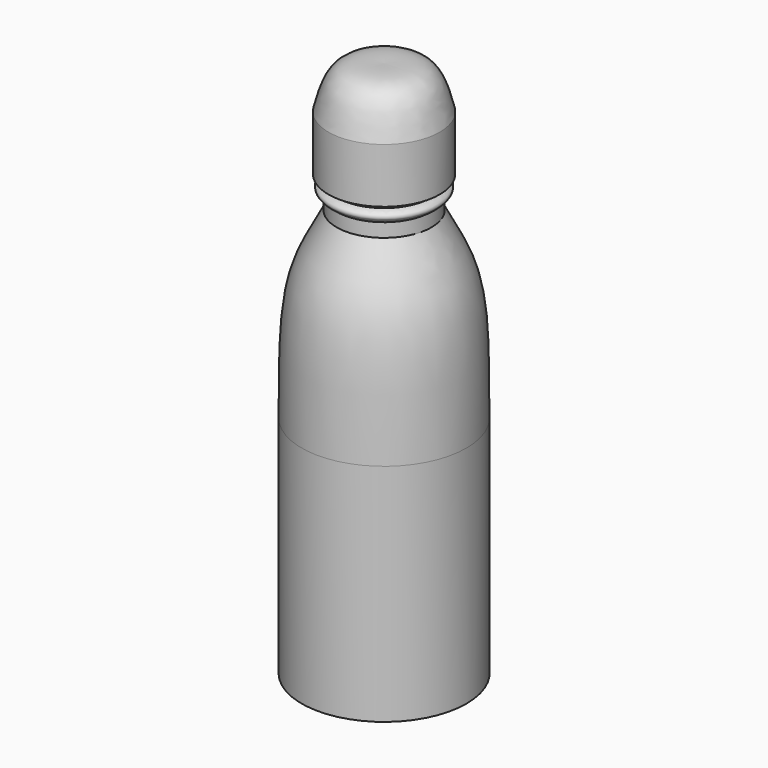
from build123d import *

# Parameters (mm, degrees)
F0_W = 7.62
F0_H = 101.6


with BuildPart() as f1:
    # F0 (on Front) → F1 (revolve)
    with BuildSketch(Plane.XZ):
        Polygon((-19.1330132127, -2.54), (-19.1330132127, 0), (-26.7530132127, 0), (-57.2330132127, 0), (-57.2330132127, -2.54), align=None)
        with BuildLine():
            Line((-42.9179315076, 192.6023430765), (-35.3368741839, 192.6023430765))
            add(Edge.make_bspline(
                [(-35.3368741839, 192.6023430765), (-32.8131928146, 194.2893316173), (-31.541768763, 196.0144606234), (-33.1843715155, 197.773891592), (-35.3368741839, 198.3488668733)],
                knots=[0, 0, 0, 0, 0.5257749267, 1, 1, 1, 1], degree=3))
            Line((-35.3368741839, 198.3488668733), (-35.3368741839, 200.8888668733))
            Line((-35.3368741839, 200.8888668733), (-31.5268741839, 200.8888668733))
            Line((-31.5268741839, 200.8888668733), (-31.5268741839, 226.2888668733))
            add(Edge.make_bspline(
                [(-31.5268741839, 226.2888668733), (-33.1618418293, 232.4582076523), (-36.4180263095, 246.7394663346), (-49.0421594933, 246.2878677466), (-57.2301743011, 245.9826194798)],
                knots=[0, 0, 0, 0, 0.4960387081, 1, 1, 1, 1], degree=3))
            Line((-57.2301743011, 245.9826194798), (-57.2330137536, 238.5543014282))
            add(Edge.make_bspline(
                [(-40.4078099513, 226.6389302265), (-40.6670888955, 229.9021829147), (-40.3692718132, 240.1591629671), (-51.7208132672, 238.8067618513), (-57.2330137536, 238.5543014282)],
                knots=[0, 0, 0, 0, 0.4604734211, 1, 1, 1, 1], degree=3))
            Line((-40.4078099513, 226.6389302265), (-40.4078099513, 201.2389302265))
            Line((-40.4078099513, 201.2389302265), (-42.9478099513, 201.2389302265))
            Line((-42.9478099513, 201.2389302265), (-42.9478099513, 198.6989302265))
            add(Edge.make_bspline(
                [(-42.9179315076, 192.6023430765), (-39.7908584911, 194.0749807548), (-38.656170298, 196.1323598878), (-40.1780539462, 197.8196685486), (-42.9478099513, 198.6989302265)],
                knots=[0, 0, 0, 0, 0.514481511, 1, 1, 1, 1], degree=3))
        make_face()
        with Locations((-22.9430132127, 50.8)):
            Rectangle(F0_W, F0_H)
        with BuildLine():
            Line((-26.7530132127, 101.6), (-19.1330132127, 101.6))
            add(Edge.make_bspline(
                [(-19.1330132127, 101.6), (-19.3409478241, 122.5133627058), (-18.236757861, 159.0989943609), (-31.3804759961, 178.0786040404), (-35.3368741839, 186.2523430765)],
                knots=[0, 0, 0, 0, 0.5813940172, 1, 1, 1, 1], degree=3))
            Line((-35.3368741839, 186.2523430765), (-42.9568220011, 186.2805434851))
            add(Edge.make_bspline(
                [(-26.7530132127, 101.6), (-27.557580246, 121.4086314164), (-28.9433408157, 156.2471227106), (-38.7571823266, 177.2283930157), (-42.9568220011, 186.2805434851)],
                knots=[0, 0, 0, 0, 0.5687623185, 1, 1, 1, 1], degree=3))
        make_face()
        Polygon((-42.9568220011, 186.2805434851), (-35.3368741839, 186.2523430765), (-35.3368741839, 192.6023430765), (-42.9179315076, 192.6023430765), (-42.9568220011, 192.6023430765), align=None)
    revolve(axis=Axis((-57.2853596672, 0, 50.8058354494), (0, 0, -1)))


solid = f1.part
